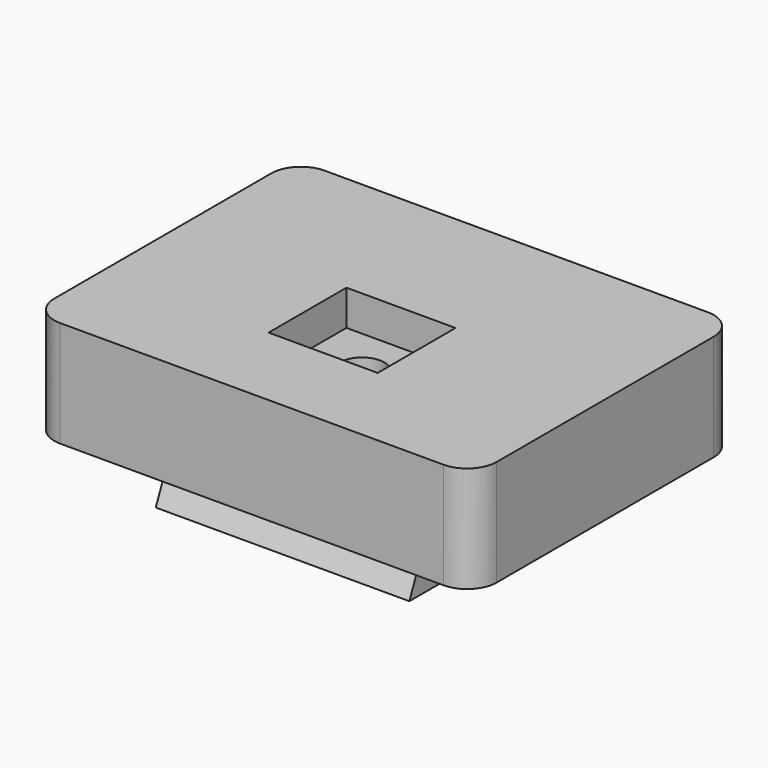
from build123d import *

# Parameters (mm, degrees)
F3_W           = 43
F3_H           = 43
F4_W           = 43
F4_H           = 35.5
F6_W           = 75
F6_H           = 56
F7_DEPTH       = 18
F8_R           = 5
F9_R           = 3.75
F10_DEPTH      = 8.6
F10_DEPTH_BACK = 18
F11_R          = 12
F12_DEPTH      = 16
F13_W          = 18.5
F13_H          = 16.5
F14_DEPTH      = 6


with BuildPart() as f5:
    # F3 (on offset) → F5 section 0
    with BuildSketch(Plane.XY.offset(-8.6)):
        Rectangle(F3_W, F3_H)
    # F4 (on Top) → F5 section 1
    with BuildSketch(Plane.XY):
        Rectangle(F4_W, F4_H)
    loft()

    # F6 (on Top) → F7 (join)
    with BuildSketch(Plane.XY):
        Rectangle(F6_W, F6_H)
    extrude(amount=F7_DEPTH)

    # F8
    f8_edges = [f5.edges().sort_by_distance(p)[0] for p in [
        (-37.5, 28, 9),
        (37.5, 28, 9),
        (37.5, -28, 9),
        (-37.5, -28, 9),
    ]]
    fillet(f8_edges, radius=F8_R)

    # F9 (on Top) → F10 (cut, two sides)
    with BuildSketch(Plane.XY) as f10_sk:
        with Locations((0, -4.65)):
            Circle(F9_R)
    extrude(amount=-F10_DEPTH, mode=Mode.SUBTRACT)
    extrude(f10_sk.sketch, amount=F10_DEPTH_BACK, mode=Mode.SUBTRACT)

    # F11 (on offset) → F12 (cut)
    with BuildSketch(Plane.XY.offset(-8.6)):
        with Locations((0, -4.65)):
            Circle(F11_R)
    extrude(amount=F12_DEPTH, mode=Mode.SUBTRACT)

    # F13 (on face) → F14 (cut)
    with BuildSketch(Plane.XY.offset(18)):
        with Locations((0, -4.65)):
            Rectangle(F13_W, F13_H)
    extrude(amount=-F14_DEPTH, mode=Mode.SUBTRACT)


solid = f5.part
